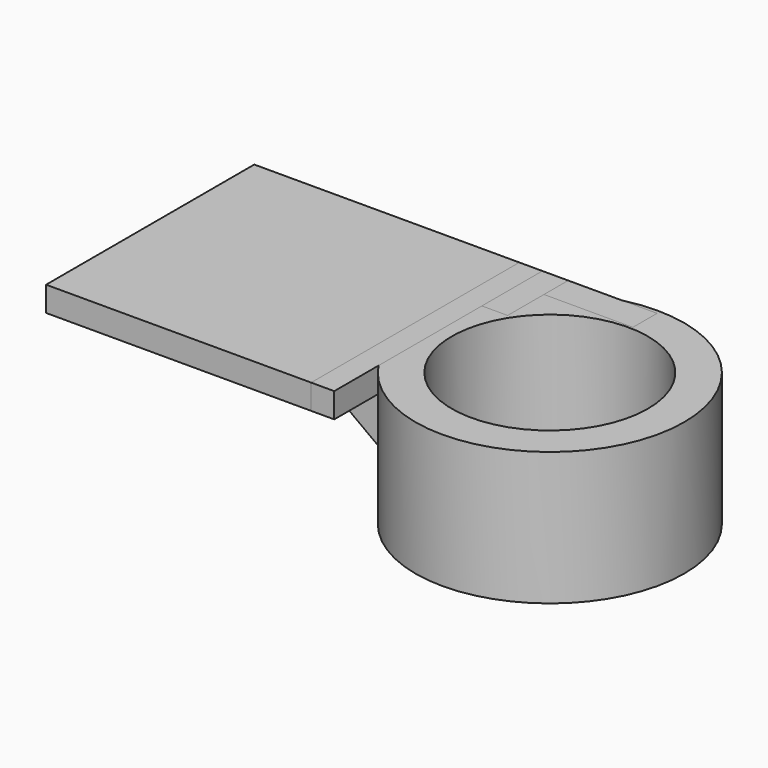
from build123d import *

# Parameters (mm, degrees)
F0_R      = 38.396404
F1_DEPTH  = 38.1
F3_W      = 75.738188
F3_H      = 74.352726
F4_DEPTH  = 7.112
F2_R      = 28.01647
F5_DEPTH  = 75.438
F7_DEPTH  = 12.7
F8_W      = 74.352726
F8_H      = 7.112
F9_DEPTH  = 6.604
F10_W     = 21.62872
F10_H     = 7.112
F11_DEPTH = 7.366
F12_W     = 8.659089
F12_H     = 7.112
F13_DEPTH = 25.4


with BuildPart() as f1:
    # F0 (on Top) → F1 (new body)
    with BuildSketch(Plane.XY):
        Circle(F0_R)
    extrude(amount=F1_DEPTH)

    # F2 (on face) → F5 (cut)
    with BuildSketch(Plane.XY.offset(38.1)):
        Circle(F2_R)
    extrude(amount=-F5_DEPTH, mode=Mode.SUBTRACT)


with BuildPart() as f4:
    # F3 (on face) → F4 (new body)
    with BuildSketch(Plane.XY.offset(38.1)):
        with Locations((-76.430911, 0.115454)):
            Rectangle(F3_W, F3_H)
    extrude(amount=-F4_DEPTH)


with BuildPart() as f7:
    # F6 (on Front) → F7 (new body, symmetric)
    with BuildSketch(Plane.XZ):
        Polygon((-38.446367, 11.891818), (-38.677275, 30.826364), (-64.077273, 30.826364), align=None)
    extrude(amount=F7_DEPTH, both=True)


with BuildPart() as f9:
    # F8 (on face) → F9 (new body)
    with BuildSketch(Plane.YZ.offset(-38.561817)):
        with Locations((0.115454, 34.544)):
            Rectangle(F8_W, F8_H)
    extrude(amount=F9_DEPTH)


with BuildPart() as f11:
    # F10 (on face) → F11 (new body)
    with BuildSketch(Plane.YZ.offset(-31.957817)):
        with Locations((26.477457, 34.544)):
            Rectangle(F10_W, F10_H)
    extrude(amount=F11_DEPTH)


with BuildPart() as f13:
    # F12 (on face) → F13 (new body)
    with BuildSketch(Plane.YZ.offset(-24.591817)):
        with Locations((32.962272, 34.544)):
            Rectangle(F12_W, F12_H)
    extrude(amount=F13_DEPTH)


solid = Compound([f1.part, f4.part, f7.part, f9.part, f11.part, f13.part])
